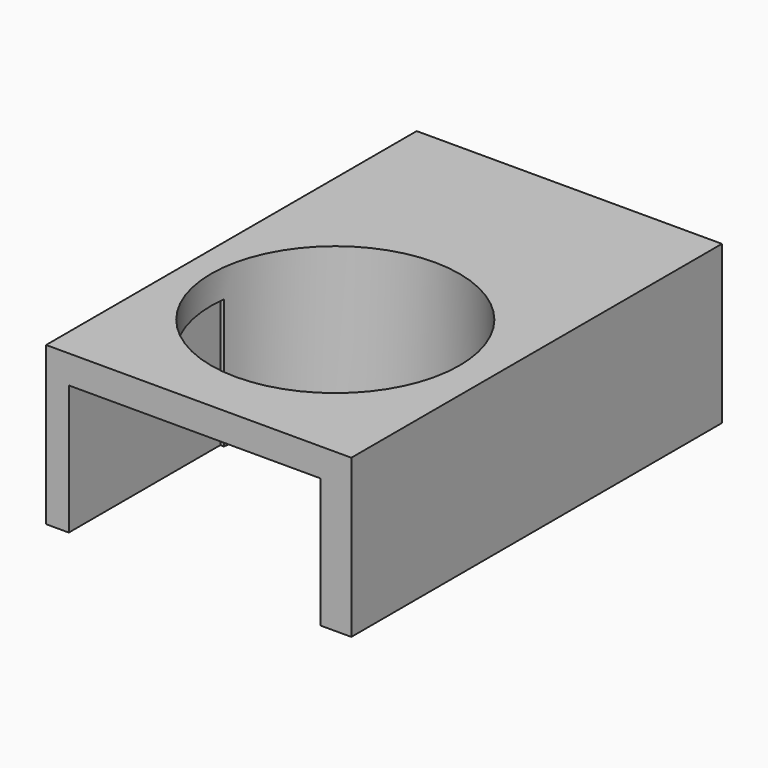
from build123d import *

# Parameters (mm, degrees)
F1_W     = 49.1438880563
F1_H     = 74.5824240148
F1_R     = 20
F2_DEPTH = 25.4
F3_W     = 40.5580233783
F3_H     = 20.8598207682
F4_DEPTH = 30.48


with BuildPart() as f2:
    # F1 (on face) → F2 (new body)
    with BuildSketch(Plane.XY):
        with Locations((0.4881527275, 9.1900061816)):
            Rectangle(F1_W, F1_H)
        Circle(F1_R, mode=Mode.SUBTRACT)
    extrude(amount=F2_DEPTH)

    # F3 (on face) → F4 (cut)
    with BuildSketch(Plane.XZ.offset(28.1012058258)):
        with Locations((-0.1438213512, 10.4299103841)):
            Rectangle(F3_W, F3_H)
    extrude(amount=-F4_DEPTH, mode=Mode.SUBTRACT)


solid = f2.part
